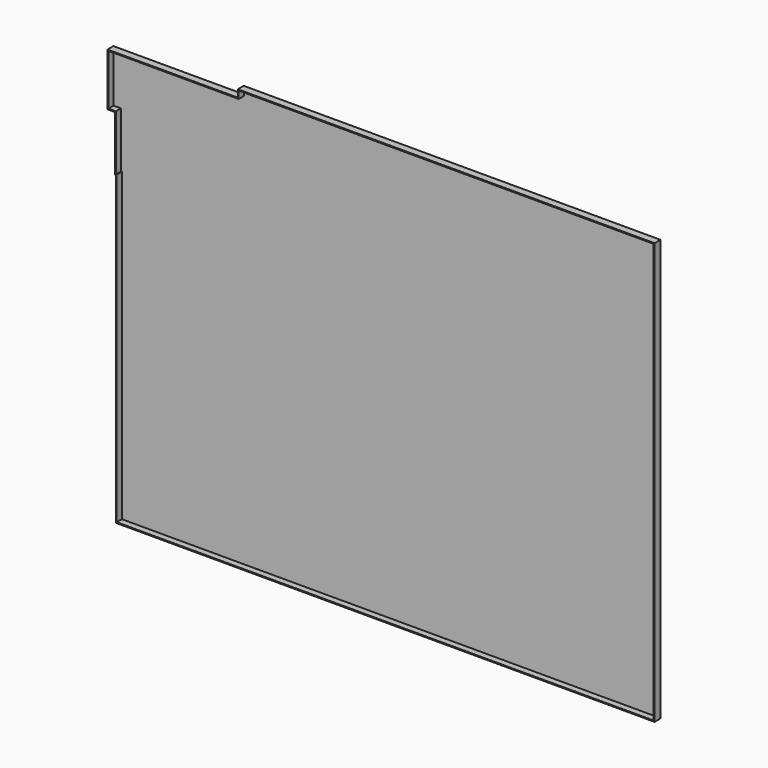
from build123d import *

# Parameters (mm, degrees)
F1_DEPTH = 50.8
F2_T     = -6.35


with BuildPart() as f1:
    # F0 (on Front) → F1 (new body)
    with BuildSketch(Plane.XZ):
        Polygon((1945.2307024002, 1009.2962327003), (-918.6192975998, 1009.2962327003), (-918.6192975998, 958.4962327003), (-1813.9692975998, 958.4962327003), (-1813.9692975998, 596.5462327003), (-1763.1692975998, 596.5462327003), (-1763.1692975998, 215.5462327003), (-1756.8192975998, 215.5462327003), (-1756.8192975998, -1886.3037672997), (1945.2307024002, -1886.3037672997), align=None)
    extrude(amount=F1_DEPTH)

    # F2
    f2_openings = [f1.faces().sort_by_distance(p)[0] for p in [
        (95.851081, -50.8, -441.622342),
    ]]
    offset(amount=F2_T, openings=f2_openings, kind=Kind.INTERSECTION)


solid = f1.part
